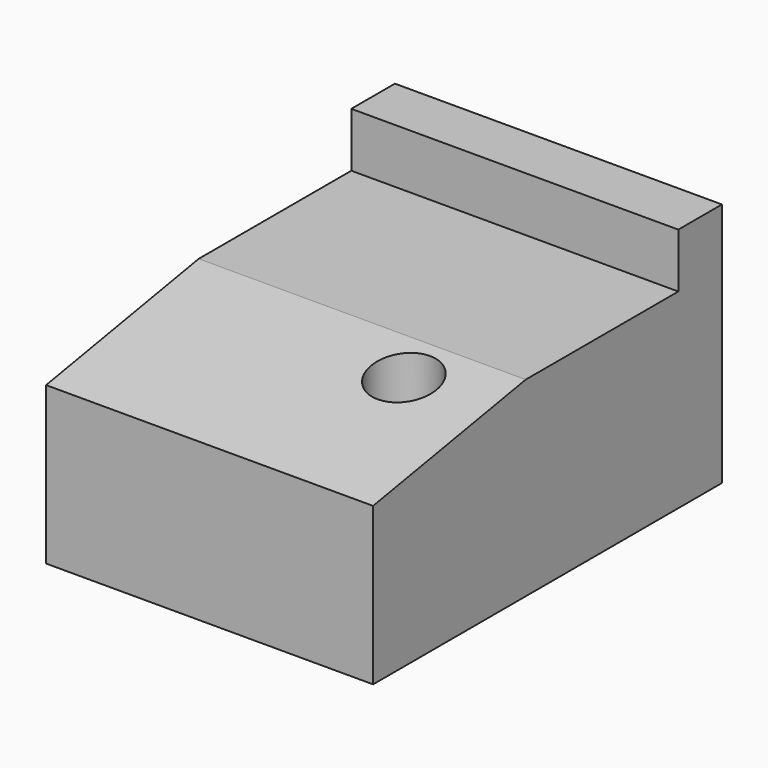
from build123d import *

# Parameters (mm, degrees)
F1_DEPTH = 76.2
F2_R     = 7.62
F3_DEPTH = 50.8


with BuildPart() as f1:
    # F0 (on Right) → F1 (new body)
    with BuildSketch(Plane.YZ):
        Polygon((-101.6, 0), (0, 0), (0, 57.15), (-12.7, 57.15), (-12.7, 44.481661), (-12.7, 44.45), (-57.15, 44.45), (-101.6, 36.612266), align=None)
    extrude(amount=-F1_DEPTH)

    # F2 (on Top) → F3 (cut)
    with BuildSketch(Plane.XY):
        with Locations((-20.0025, -67.6275)):
            Circle(F2_R)
    extrude(amount=F3_DEPTH, mode=Mode.SUBTRACT)


solid = f1.part
